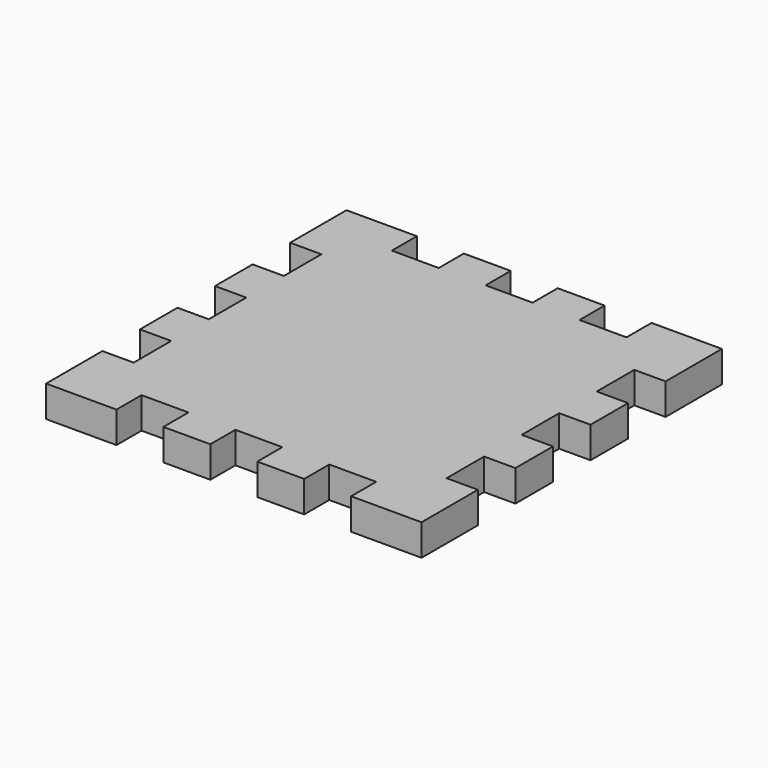
from build123d import *

# Parameters (mm, degrees)
F1_DEPTH = 6.35


with BuildPart() as f1:
    # F0 (on Top) → F1 (new body)
    with BuildSketch(Plane.XY):
        Polygon((14.2875, 0), (0, 0), (0, -14.2875), (6.35, -14.2875), (6.35, -23.8125), (0, -23.8125), (0, -33.3375), (6.35, -33.3375), (6.35, -42.8625), (0, -42.8625), (0, -52.3875), (6.35, -52.3875), (6.35, -61.9125), (0, -61.9125), (0, -76.2), (14.2875, -76.2), (14.2875, -69.85), (23.8125, -69.85), (23.8125, -76.2), (33.3375, -76.2), (33.3375, -69.85), (42.8625, -69.85), (42.8625, -76.2), (52.3875, -76.2), (52.3875, -69.85), (61.9125, -69.85), (61.9125, -76.2), (76.2, -76.2), (76.2, -61.9125), (69.85, -61.9125), (69.85, -52.3875), (76.2, -52.3875), (76.2, -42.8625), (69.85, -42.8625), (69.85, -33.3375), (76.2, -33.3375), (76.2, -23.8125), (69.85, -23.8125), (69.85, -14.2875), (76.2, -14.2875), (76.2, 0), (61.9125, 0), (61.9125, -6.35), (52.3875, -6.35), (52.3875, 0), (42.8625, 0), (42.8625, -6.35), (33.3375, -6.35), (33.3375, 0), (23.8125, 0), (23.8125, -6.35), (14.2875, -6.35), align=None)
    extrude(amount=F1_DEPTH)


solid = f1.part
